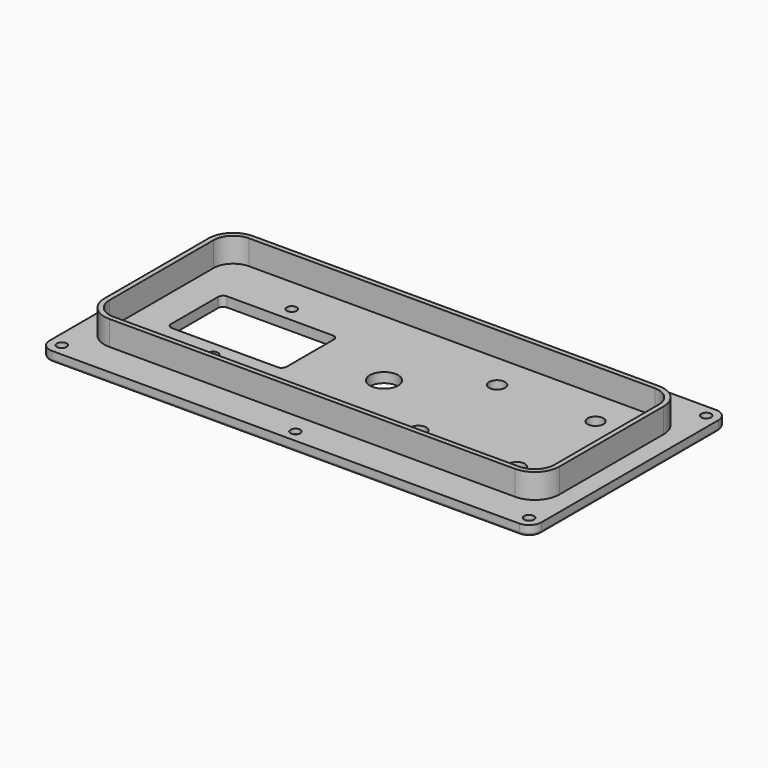
from build123d import *

# Parameters (mm, degrees)
SKETCH_R     = 5.75
SKETCH_R_2   = 2
SKETCH_R_3   = 3.25
PAD_DEPTH    = 4
PAD001_DEPTH = 10
SKETCH002_R  = 3
POCKET_DEPTH = 2
FILLET_R     = 1


with BuildPart() as part:
    # Sketch → Pad (new body)
    with BuildSketch(Plane.XY):
        with BuildLine():
            ThreePointArc((-95, 50), (-98.535534, 48.535534), (-100, 45))
            Line((-100, -45), (-100, 45))
            ThreePointArc((-100, -45), (-98.535534, -48.535534), (-95, -50))
            Line((95, -50), (-95, -50))
            ThreePointArc((95, -50), (98.535534, -48.535534), (100, -45))
            Line((100, 45), (100, -45))
            ThreePointArc((100, 45), (98.535534, 48.535534), (95, 50))
            Line((-95, 50), (95, 50))
        make_face()
        Circle(SKETCH_R, mode=Mode.SUBTRACT)
        with Locations((95, 45)):
            Circle(SKETCH_R_2, mode=Mode.SUBTRACT)
        with Locations((95, -45)):
            Circle(SKETCH_R_2, mode=Mode.SUBTRACT)
        with Locations((-95, 45)):
            Circle(SKETCH_R_2, mode=Mode.SUBTRACT)
        with Locations((0, 45)):
            Circle(SKETCH_R_2, mode=Mode.SUBTRACT)
        with Locations((0, -45)):
            Circle(SKETCH_R_2, mode=Mode.SUBTRACT)
        with Locations((30, 20)):
            Circle(SKETCH_R_3, mode=Mode.SUBTRACT)
        with Locations((70, 20)):
            Circle(SKETCH_R_3, mode=Mode.SUBTRACT)
        with Locations((30, -20)):
            Circle(SKETCH_R_3, mode=Mode.SUBTRACT)
        with Locations((70, -20)):
            Circle(SKETCH_R_3, mode=Mode.SUBTRACT)
        with Locations((-53.5, 20)):
            Circle(SKETCH_R_2, mode=Mode.SUBTRACT)
        with Locations((-53.5, -20)):
            Circle(SKETCH_R_2, mode=Mode.SUBTRACT)
        with Locations((-95, -45)):
            Circle(SKETCH_R_2, mode=Mode.SUBTRACT)
        with BuildLine():
            ThreePointArc((-75, 14), (-76.414214, 13.414214), (-77, 12))
            Line((-77, -12), (-77, 12))
            ThreePointArc((-77, -12), (-76.414214, -13.414214), (-75, -14))
            Line((-32, -14), (-75, -14))
            ThreePointArc((-32, -14), (-30.585786, -13.414214), (-30, -12))
            Line((-30, 12), (-30, -12))
            ThreePointArc((-30, 12), (-30.585786, 13.414214), (-32, 14))
            Line((-75, 14), (-32, 14))
        make_face(mode=Mode.SUBTRACT)
    extrude(amount=PAD_DEPTH)

    # Sketch001 (on Face31 of Pad) → Pad001 (join)
    with BuildSketch(Plane.XY.offset(4)):
        with BuildLine():
            ThreePointArc((-82.5, 36.5), (-89.571068, 33.571068), (-92.5, 26.5))
            Line((-92.5, -26.5), (-92.5, 26.5))
            ThreePointArc((-92.5, -26.5), (-89.571068, -33.571068), (-82.5, -36.5))
            Line((82.5, -36.5), (-82.5, -36.5))
            ThreePointArc((82.5, -36.5), (89.571068, -33.571068), (92.5, -26.5))
            Line((92.5, 26.5), (92.5, -26.5))
            ThreePointArc((92.5, 26.5), (89.571068, 33.571068), (82.5, 36.5))
            Line((-82.5, 36.5), (82.5, 36.5))
        make_face()
        with BuildLine():
            ThreePointArc((-82.5, 34.5), (-88.156854, 32.156854), (-90.5, 26.5))
            Line((-90.5, -26.5), (-90.5, 26.5))
            ThreePointArc((-90.5, -26.5), (-88.156854, -32.156854), (-82.5, -34.5))
            Line((82.5, -34.5), (-82.5, -34.5))
            ThreePointArc((82.5, -34.5), (88.156854, -32.156854), (90.5, -26.5))
            Line((90.5, 26.5), (90.5, -26.5))
            ThreePointArc((90.5, 26.5), (88.156854, 32.156854), (82.5, 34.5))
            Line((-82.5, 34.5), (82.5, 34.5))
        make_face(mode=Mode.SUBTRACT)
    extrude(amount=PAD001_DEPTH)

    # Sketch002 (on Face4 of Pad001) → Pocket (cut)
    with BuildSketch(Plane(origin=(0, 0, 0), x_dir=(1, 0, 0), z_dir=(0, 0, -1))):
        with Locations((-95, 45)):
            Circle(SKETCH002_R)
        with Locations((0, 45)):
            Circle(SKETCH002_R)
        with Locations((95, 45)):
            Circle(SKETCH002_R)
        with Locations((95, -45)):
            Circle(SKETCH002_R)
        with Locations((0, -45)):
            Circle(SKETCH002_R)
        with Locations((-95, -45)):
            Circle(SKETCH002_R)
    extrude(amount=-POCKET_DEPTH, mode=Mode.SUBTRACT)

    # Fillet
    fillet_edges = [part.edges().sort_by_distance(p)[0] for p in [
        (0, -50, 0),
    ]]
    fillet(fillet_edges, radius=FILLET_R)


solid = part.part
